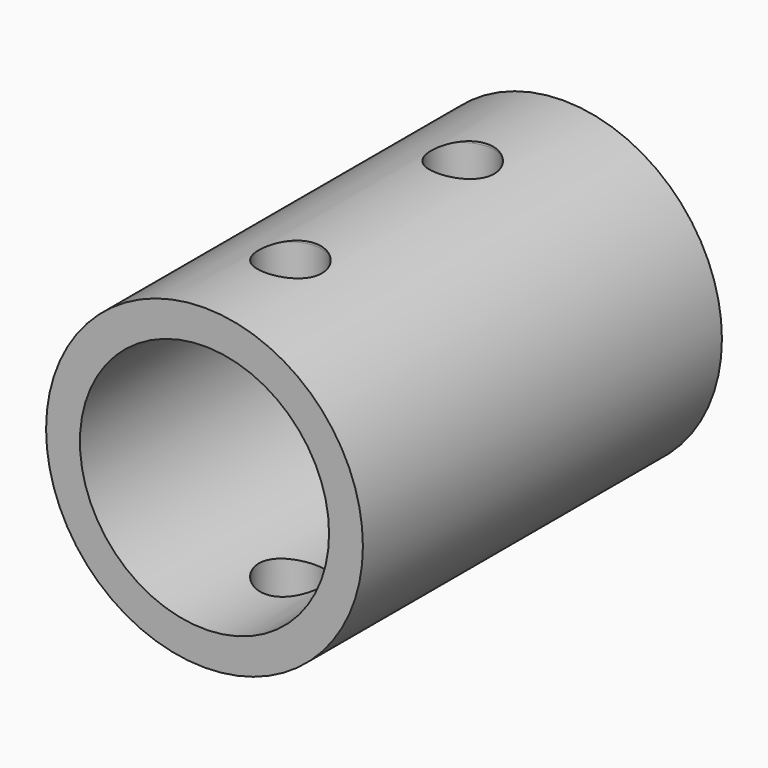
from build123d import *

# Parameters (mm, degrees)
F0_R          = 8.8245931944
F0_R_2        = 6.9403058841
F1_DEPTH      = 25
F2_R          = 1.7537284436
F3_DEPTH      = 25
F3_DEPTH_BACK = 25


with BuildPart() as f1:
    # F0 (on Front) → F1 (new body)
    with BuildSketch(Plane.XZ):
        with Locations((0, -8.6999973282)):
            Circle(F0_R)
        with Locations((0, -8.6999973282)):
            Circle(F0_R_2, mode=Mode.SUBTRACT)
    extrude(amount=F1_DEPTH)

    # F2 (on Top) → F3 (cut, two sides)
    with BuildSketch(Plane.XY) as f3_sk:
        with Locations((0, -7.0246481337)):
            Circle(F2_R)
        with Locations((0, -19.0165527165)):
            Circle(F2_R)
    extrude(amount=-F3_DEPTH, mode=Mode.SUBTRACT)
    extrude(f3_sk.sketch, amount=F3_DEPTH_BACK, mode=Mode.SUBTRACT)


solid = f1.part
